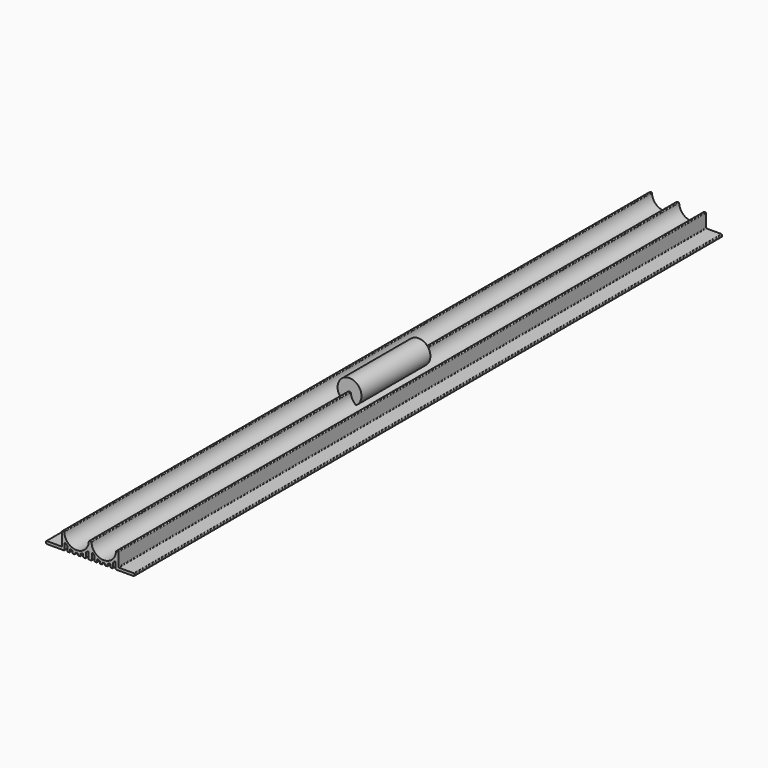
from build123d import *

# Parameters (mm, degrees)
F1_DEPTH = 277
F2_R     = 9
F3_DEPTH = 32.5


with BuildPart() as f1:
    # F0 (on Front) → F1 (new body, symmetric)
    with BuildSketch(Plane.XZ):
        with BuildLine():
            ThreePointArc((-1.0121710579, -0.4743589744), (-10.25, -9.25), (-19.4878289421, -0.4743589744))
            ThreePointArc((-19.4878289421, -0.4743589744), (-19.6428024312, -0.137494474), (-19.9871710471, 0))
            Line((-19.9871710471, 0), (-20.75, 0))
            ThreePointArc((-20.75, 0), (-21.1035533906, -0.1464466094), (-21.25, -0.5))
            Line((-21.25, -0.5), (-21.25, -10))
            ThreePointArc((-21.25, -10), (-21.3964466094, -10.3535533906), (-21.75, -10.5))
            Line((-21.75, -10.5), (-32.75, -10.5))
            ThreePointArc((-32.75, -10.5), (-33.1035533906, -10.6464466094), (-33.25, -11))
            Line((-33.25, -11), (-33.25, -12))
            ThreePointArc((-33.25, -12), (-33.1035533906, -12.3535533906), (-32.75, -12.5))
            Line((-32.75, -12.5), (-21.25, -12.5))
            Line((-21.25, -12.5), (-19.75, -12.5))
            ThreePointArc((-19.75, -12.5), (-19.3964466094, -12.3535533906), (-19.25, -12))
            Line((-19.25, -12), (-19.25, -7.7459666924))
            ThreePointArc((-19.25, -7.7459666924), (-18.9305787796, -7.2797142883), (-18.3804347826, -7.4091855319))
            ThreePointArc((-18.3804347826, -7.4091855319), (-17.9162764269, -7.8884856434), (-17.4239130435, -8.3387631963))
            ThreePointArc((-17.4239130435, -8.3387631963), (-17.2955533704, -8.509283473), (-17.25, -8.7177978871))
            Line((-17.25, -8.7177978871), (-17.25, -12))
            ThreePointArc((-17.25, -12), (-17.1035533906, -12.3535533906), (-16.75, -12.5))
            Line((-16.75, -12.5), (-15.75, -12.5))
            ThreePointArc((-15.75, -12.5), (-15.3964466094, -12.3535533906), (-15.25, -12))
            Line((-15.25, -12), (-15.25, -10.5830052443))
            ThreePointArc((-15.25, -10.5830052443), (-15.0258386422, -10.1659764161), (-14.5543478261, -10.1228745815))
            ThreePointArc((-14.5543478261, -10.1228745815), (-14.080208901, -10.3116196485), (-13.597826087, -10.4781706653))
            ThreePointArc((-13.597826087, -10.4781706653), (-13.3462135735, -10.6595672378), (-13.25, -10.9544511501))
            Line((-13.25, -10.9544511501), (-13.25, -12))
            ThreePointArc((-13.25, -12), (-13.1035533906, -12.3535533906), (-12.75, -12.5))
            Line((-12.75, -12.5), (-11.75, -12.5))
            ThreePointArc((-11.75, -12.5), (-11.3964466094, -12.3535533906), (-11.25, -12))
            Line((-11.25, -12), (-11.25, -11.4891252931))
            ThreePointArc((-11.25, -11.4891252931), (-11.0957820374, -11.1279677338), (-10.7282608696, -10.9895981064))
            ThreePointArc((-10.7282608696, -10.9895981064), (-10.25, -11), (-9.7717391304, -10.9895981064))
            ThreePointArc((-9.7717391304, -10.9895981064), (-9.4042179626, -11.1279677338), (-9.25, -11.4891252931))
            Line((-9.25, -11.4891252931), (-9.25, -12))
            ThreePointArc((-9.25, -12), (-9.1035533906, -12.3535533906), (-8.75, -12.5))
            Line((-8.75, -12.5), (-7.75, -12.5))
            ThreePointArc((-7.75, -12.5), (-7.3964466094, -12.3535533906), (-7.25, -12))
            Line((-7.25, -12), (-7.25, -10.9544511501))
            ThreePointArc((-7.25, -10.9544511501), (-7.1537864265, -10.6595672378), (-6.902173913, -10.4781706653))
            ThreePointArc((-6.902173913, -10.4781706653), (-6.419791099, -10.3116196485), (-5.9456521739, -10.1228745815))
            ThreePointArc((-5.9456521739, -10.1228745815), (-5.4741613578, -10.1659764161), (-5.25, -10.5830052443))
            Line((-5.25, -10.5830052443), (-5.25, -12))
            ThreePointArc((-5.25, -12), (-5.1035533906, -12.3535533906), (-4.75, -12.5))
            Line((-4.75, -12.5), (-3.75, -12.5))
            ThreePointArc((-3.75, -12.5), (-3.3964466094, -12.3535533906), (-3.25, -12))
            Line((-3.25, -12), (-3.25, -8.7177978871))
            ThreePointArc((-3.25, -8.7177978871), (-3.2044466296, -8.509283473), (-3.0760869565, -8.3387631963))
            ThreePointArc((-3.0760869565, -8.3387631963), (-2.5837235731, -7.8884856434), (-2.1195652174, -7.4091855319))
            ThreePointArc((-2.1195652174, -7.4091855319), (-1.5694212204, -7.2797142883), (-1.25, -7.7459666924))
            Line((-1.25, -7.7459666924), (-1.25, -12))
            ThreePointArc((-1.25, -12), (-1.1035533906, -12.3535533906), (-0.75, -12.5))
            Line((-0.75, -12.5), (0, -12.5))
            Line((0, -12.5), (0.75, -12.5))
            ThreePointArc((0.75, -12.5), (1.1035533906, -12.3535533906), (1.25, -12))
            Line((1.25, -12), (1.25, -7.7459666924))
            ThreePointArc((1.25, -7.7459666924), (1.5694212204, -7.2797142883), (2.1195652174, -7.4091855319))
            ThreePointArc((2.1195652174, -7.4091855319), (2.5837235731, -7.8884856434), (3.0760869565, -8.3387631963))
            ThreePointArc((3.0760869565, -8.3387631963), (3.2044466296, -8.509283473), (3.25, -8.7177978871))
            Line((3.25, -8.7177978871), (3.25, -12))
            ThreePointArc((3.25, -12), (3.3964466094, -12.3535533906), (3.75, -12.5))
            Line((3.75, -12.5), (4.75, -12.5))
            ThreePointArc((4.75, -12.5), (5.1035533906, -12.3535533906), (5.25, -12))
            Line((5.25, -12), (5.25, -10.5830052443))
            ThreePointArc((5.25, -10.5830052443), (5.4741613578, -10.1659764161), (5.9456521739, -10.1228745815))
            ThreePointArc((5.9456521739, -10.1228745815), (6.419791099, -10.3116196485), (6.902173913, -10.4781706653))
            ThreePointArc((6.902173913, -10.4781706653), (7.1537864265, -10.6595672378), (7.25, -10.9544511501))
            Line((7.25, -10.9544511501), (7.25, -12))
            ThreePointArc((7.25, -12), (7.3964466094, -12.3535533906), (7.75, -12.5))
            Line((7.75, -12.5), (8.75, -12.5))
            ThreePointArc((8.75, -12.5), (9.1035533906, -12.3535533906), (9.25, -12))
            Line((9.25, -12), (9.25, -11.4891252931))
            ThreePointArc((9.25, -11.4891252931), (9.4042179626, -11.1279677338), (9.7717391304, -10.9895981064))
            ThreePointArc((9.7717391304, -10.9895981064), (10.25, -11), (10.7282608696, -10.9895981064))
            ThreePointArc((10.7282608696, -10.9895981064), (11.0957820374, -11.1279677338), (11.25, -11.4891252931))
            Line((11.25, -11.4891252931), (11.25, -12))
            ThreePointArc((11.25, -12), (11.3964466094, -12.3535533906), (11.75, -12.5))
            Line((11.75, -12.5), (12.75, -12.5))
            ThreePointArc((12.75, -12.5), (13.1035533906, -12.3535533906), (13.25, -12))
            Line((13.25, -12), (13.25, -10.9544511501))
            ThreePointArc((13.25, -10.9544511501), (13.3462135735, -10.6595672378), (13.597826087, -10.4781706653))
            ThreePointArc((13.597826087, -10.4781706653), (14.080208901, -10.3116196485), (14.5543478261, -10.1228745815))
            ThreePointArc((14.5543478261, -10.1228745815), (15.0258386422, -10.1659764161), (15.25, -10.5830052443))
            Line((15.25, -10.5830052443), (15.25, -12))
            ThreePointArc((15.25, -12), (15.3964466094, -12.3535533906), (15.75, -12.5))
            Line((15.75, -12.5), (16.75, -12.5))
            ThreePointArc((16.75, -12.5), (17.1035533906, -12.3535533906), (17.25, -12))
            Line((17.25, -12), (17.25, -8.7177978871))
            ThreePointArc((17.25, -8.7177978871), (17.2955533704, -8.509283473), (17.4239130435, -8.3387631963))
            ThreePointArc((17.4239130435, -8.3387631963), (17.9162764269, -7.8884856434), (18.3804347826, -7.4091855319))
            ThreePointArc((18.3804347826, -7.4091855319), (18.9305787796, -7.2797142883), (19.25, -7.7459666924))
            Line((19.25, -7.7459666924), (19.25, -12))
            ThreePointArc((19.25, -12), (19.3964466094, -12.3535533906), (19.75, -12.5))
            Line((19.75, -12.5), (21.25, -12.5))
            Line((21.25, -12.5), (32.75, -12.5))
            ThreePointArc((32.75, -12.5), (33.1035533906, -12.3535533906), (33.25, -12))
            Line((33.25, -12), (33.25, -11))
            ThreePointArc((33.25, -11), (33.1035533906, -10.6464466094), (32.75, -10.5))
            Line((32.75, -10.5), (21.75, -10.5))
            ThreePointArc((21.75, -10.5), (21.3964466094, -10.3535533906), (21.25, -10))
            Line((21.25, -10), (21.25, -0.5))
            ThreePointArc((21.25, -0.5), (21.1035533906, -0.1464466094), (20.75, 0))
            Line((20.75, 0), (19.9871710471, 0))
            ThreePointArc((19.9871710471, 0), (19.6428024312, -0.137494474), (19.4878289421, -0.4743589744))
            ThreePointArc((19.4878289421, -0.4743589744), (10.25, -9.25), (1.0121710579, -0.4743589744))
            ThreePointArc((1.0121710579, -0.4743589744), (0.8571975688, -0.137494474), (0.5128289529, 0))
            Line((0.5128289529, 0), (0, 0))
            Line((0, 0), (-0.5128289529, 0))
            ThreePointArc((-0.5128289529, 0), (-0.8571975688, -0.137494474), (-1.0121710579, -0.4743589744))
        make_face()
    extrude(amount=F1_DEPTH, both=True)


with BuildPart() as f3:
    # F2 (on Front) → F3 (new body, symmetric)
    with BuildSketch(Plane.XZ):
        Circle(F2_R)
    extrude(amount=F3_DEPTH, both=True)


solid = Compound([f1.part, f3.part])
